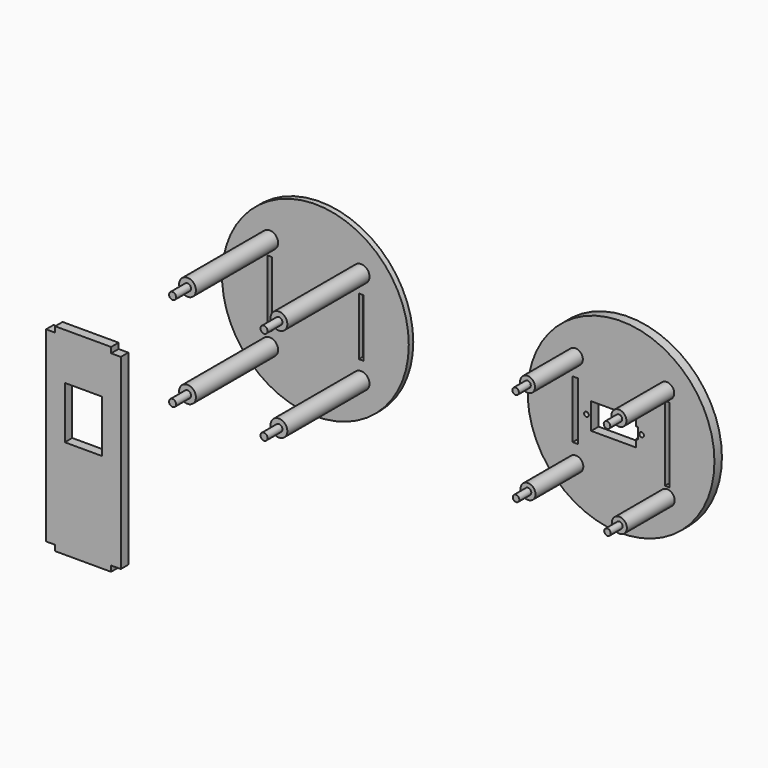
from build123d import *

# Parameters (mm, degrees)
F0_R     = 50
F0_R_2   = 4
F0_W     = 2.8
F0_H     = 31
F0_R_3   = 1.25
F0_W_2   = 2.5
F0_H_2   = 40
F1_DEPTH = 5
F0_R_4   = 1.75
F2_DEPTH = 37
F3_DEPTH = 45
F0_W_3   = 20
F0_H_3   = 28
F4_DEPTH = 5
F0_R_5   = 4.5
F0_H_4   = 35
F5_DEPTH = 3
F0_R_6   = 1.9
F6_DEPTH = 58
F7_DEPTH = 68


with BuildPart() as f1:
    # F0 (on Front) → F1 (new body)
    with BuildSketch(Plane.XZ):
        with Locations((-135.343364, 127.871662)):
            Circle(F0_R)
        with Locations((-159.560265, 102.649672)):
            Circle(F0_R_2, mode=Mode.SUBTRACT)
        with Locations((-110.626463, 102.649672)):
            Circle(F0_R_2, mode=Mode.SUBTRACT)
        with Locations((-159.810265, 127.871662)):
            Rectangle(F0_W, F0_H, mode=Mode.SUBTRACT)
        with Locations((-153.873364, 127.871662)):
            Circle(F0_R_3, mode=Mode.SUBTRACT)
        Polygon((-151.343364, 134.871662), (-127.343364, 134.871662), (-127.343364, 130.871662), (-126.343364, 130.871662), (-126.343364, 124.871662), (-127.343364, 124.871662), (-127.343364, 120.871662), (-151.343364, 120.871662), align=None, mode=Mode.SUBTRACT)
        with Locations((-124.343364, 127.871662)):
            Circle(F0_R_3, mode=Mode.SUBTRACT)
        with Locations((-110.626463, 127.871662)):
            Rectangle(F0_W_2, F0_H_2, mode=Mode.SUBTRACT)
        with Locations((-159.810265, 153.093033)):
            Circle(F0_R_2, mode=Mode.SUBTRACT)
        with Locations((-110.876463, 153.093652)):
            Circle(F0_R_2, mode=Mode.SUBTRACT)
    extrude(amount=F1_DEPTH)

    # F0 (on Front) → F2 (join)
    with BuildSketch(Plane.XZ):
        with Locations((-159.560265, 102.649672)):
            Circle(F0_R_2)
        with Locations((-159.560265, 102.649672)):
            Circle(F0_R_4, mode=Mode.SUBTRACT)
        with Locations((-110.626463, 102.649672)):
            Circle(F0_R_2)
        with Locations((-110.626463, 102.649672)):
            Circle(F0_R_4, mode=Mode.SUBTRACT)
        with Locations((-110.876463, 153.093652)):
            Circle(F0_R_2)
        with Locations((-110.876463, 153.093652)):
            Circle(F0_R_4, mode=Mode.SUBTRACT)
        with Locations((-159.810265, 153.093033)):
            Circle(F0_R_2)
        with Locations((-159.810265, 153.093033)):
            Circle(F0_R_4, mode=Mode.SUBTRACT)
    extrude(amount=F2_DEPTH)

    # F0 (on Front) → F3 (join)
    with BuildSketch(Plane.XZ):
        with Locations((-159.810265, 153.093033)):
            Circle(F0_R_4)
        with Locations((-110.876463, 153.093652)):
            Circle(F0_R_4)
        with Locations((-110.626463, 102.649672)):
            Circle(F0_R_4)
        with Locations((-159.560265, 102.649672)):
            Circle(F0_R_4)
    extrude(amount=F3_DEPTH)


with BuildPart() as f4:
    # F0 (on Front) → F4 (new body)
    with BuildSketch(Plane.XZ):
        Polygon((-408.373774, -26.132504), (-403.185389, -26.132504), (-403.185389, 73.867496), (-408.373774, 73.867496), (-408.373774, 76.867496), (-438.373774, 76.867496), (-438.373774, 73.867496), (-443.185389, 73.867496), (-443.185389, -26.132504), (-438.373774, -26.132504), (-438.373774, -29.132504), (-408.373774, -29.132504), align=None)
        with Locations((-423.185389, 37.867496)):
            Rectangle(F0_W_3, F0_H_3, mode=Mode.SUBTRACT)
    extrude(amount=F4_DEPTH)


with BuildPart() as f5:
    # F0 (on Front) → F5 (new body)
    with BuildSketch(Plane.XZ):
        with Locations((-300.590894, 128.411412)):
            Circle(F0_R)
        with BuildLine():
            Line((-330.057795, 161.633402), (-271.123993, 161.633402))
            ThreePointArc((-271.123993, 161.633402), (-267.588459, 160.168936), (-266.123993, 156.633402))
            Line((-266.123993, 156.633402), (-266.123993, 100.189422))
            ThreePointArc((-266.123993, 100.189422), (-267.588459, 96.653888), (-271.123993, 95.189422))
            Line((-271.123993, 95.189422), (-330.057795, 95.189422))
            ThreePointArc((-330.057795, 95.189422), (-333.593329, 96.653888), (-335.057795, 100.189422))
            Line((-335.057795, 100.189422), (-335.057795, 156.633402))
            ThreePointArc((-335.057795, 156.633402), (-333.593329, 160.168936), (-330.057795, 161.633402))
        make_face(mode=Mode.SUBTRACT)
        with BuildLine():
            ThreePointArc((-266.123993, 156.633402), (-267.588459, 160.168936), (-271.123993, 161.633402))
            Line((-271.123993, 161.633402), (-330.057795, 161.633402))
            ThreePointArc((-330.057795, 161.633402), (-333.593329, 160.168936), (-335.057795, 156.633402))
            Line((-335.057795, 156.633402), (-335.057795, 100.189422))
            ThreePointArc((-335.057795, 100.189422), (-333.593329, 96.653888), (-330.057795, 95.189422))
            Line((-330.057795, 95.189422), (-271.123993, 95.189422))
            ThreePointArc((-271.123993, 95.189422), (-267.588459, 96.653888), (-266.123993, 100.189422))
            Line((-266.123993, 100.189422), (-266.123993, 156.633402))
        make_face()
        with Locations((-325.057795, 103.189422)):
            Circle(F0_R_5, mode=Mode.SUBTRACT)
        with Locations((-276.123993, 103.189422)):
            Circle(F0_R_5, mode=Mode.SUBTRACT)
        with Locations((-325.057795, 128.411412)):
            Rectangle(F0_W_2, F0_H_4, mode=Mode.SUBTRACT)
        with Locations((-276.123993, 128.411412)):
            Rectangle(F0_W_2, F0_H, mode=Mode.SUBTRACT)
        with Locations((-325.057795, 153.633402)):
            Circle(F0_R_5, mode=Mode.SUBTRACT)
        with Locations((-276.123993, 153.633402)):
            Circle(F0_R_5, mode=Mode.SUBTRACT)
    extrude(amount=F5_DEPTH)

    # F0 (on Front) → F6 (join)
    with BuildSketch(Plane.XZ):
        with Locations((-325.057795, 153.633402)):
            Circle(F0_R_5)
        with Locations((-325.057795, 153.633402)):
            Circle(F0_R_6, mode=Mode.SUBTRACT)
        with Locations((-276.123993, 153.633402)):
            Circle(F0_R_5)
        with Locations((-276.123993, 153.633402)):
            Circle(F0_R_6, mode=Mode.SUBTRACT)
        with Locations((-276.123993, 103.189422)):
            Circle(F0_R_5)
        with Locations((-276.123993, 103.189422)):
            Circle(F0_R_6, mode=Mode.SUBTRACT)
        with Locations((-325.057795, 103.189422)):
            Circle(F0_R_5)
        with Locations((-325.057795, 103.189422)):
            Circle(F0_R_6, mode=Mode.SUBTRACT)
    extrude(amount=F6_DEPTH)

    # F0 (on Front) → F7 (join)
    with BuildSketch(Plane.XZ):
        with Locations((-325.057795, 153.633402)):
            Circle(F0_R_6)
        with Locations((-276.123993, 153.633402)):
            Circle(F0_R_6)
        with Locations((-276.123993, 103.189422)):
            Circle(F0_R_6)
        with Locations((-325.057795, 103.189422)):
            Circle(F0_R_6)
    extrude(amount=F7_DEPTH)


solid = Compound([f1.part, f4.part, f5.part])
